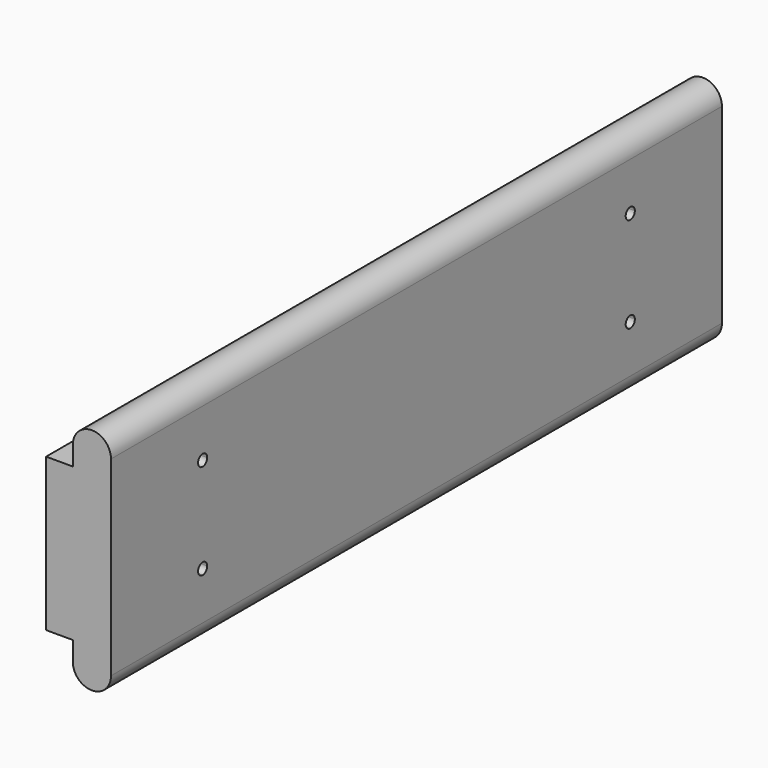
from build123d import *

# Parameters (mm, degrees)
F0_W     = 7
F0_H     = 40
F1_DEPTH = 200
F3_DEPTH = 25


with BuildPart() as f1:
    # F0 (on Front) → F1 (new body)
    with BuildSketch(Plane.XZ):
        with Locations((-3.5, 25)):
            Rectangle(F0_W, F0_H)
        with BuildLine():
            Line((10, 0), (0, 0))
            ThreePointArc((0, 0), (5, -5), (10, 0))
        make_face()
        with BuildLine():
            ThreePointArc((10, 0), (5, 5), (0, 0))
            Line((0, 0), (10, 0))
        make_face()
        with BuildLine():
            ThreePointArc((0, 50), (5, 45), (10, 50))
            Line((10, 50), (0, 50))
        make_face()
        with BuildLine():
            Line((0, 50), (10, 50))
            ThreePointArc((10, 50), (5, 55), (0, 50))
        make_face()
        with BuildLine():
            Line((0, 5), (0, 0))
            ThreePointArc((0, 0), (5, 5), (10, 0))
            Line((10, 0), (10, 50))
            ThreePointArc((10, 50), (5, 45), (0, 50))
            Line((0, 50), (0, 45))
            Line((0, 45), (0, 5))
        make_face()
    extrude(amount=F1_DEPTH)

    # F2 (on face) → F3 (cut)
    with BuildSketch(Plane.YZ.offset(10)):
        with BuildLine():
            ThreePointArc((-168.5, 37.5), (-168.93934, 38.56066), (-170, 39))
            ThreePointArc((-170, 39), (-171.06066, 36.43934), (-168.5, 37.5))
        make_face()
        with BuildLine():
            ThreePointArc((-168.5, 12.5), (-171.06066, 13.56066), (-170, 11))
            ThreePointArc((-170, 11), (-168.93934, 11.43934), (-168.5, 12.5))
        make_face()
        with BuildLine():
            ThreePointArc((-28.5, 12.5), (-31.06066, 13.56066), (-30, 11))
            ThreePointArc((-30, 11), (-28.93934, 11.43934), (-28.5, 12.5))
        make_face()
        with BuildLine():
            ThreePointArc((-28.5, 37.5), (-28.93934, 38.56066), (-30, 39))
            ThreePointArc((-30, 39), (-31.06066, 36.43934), (-28.5, 37.5))
        make_face()
    extrude(amount=-F3_DEPTH, mode=Mode.SUBTRACT)


solid = f1.part
